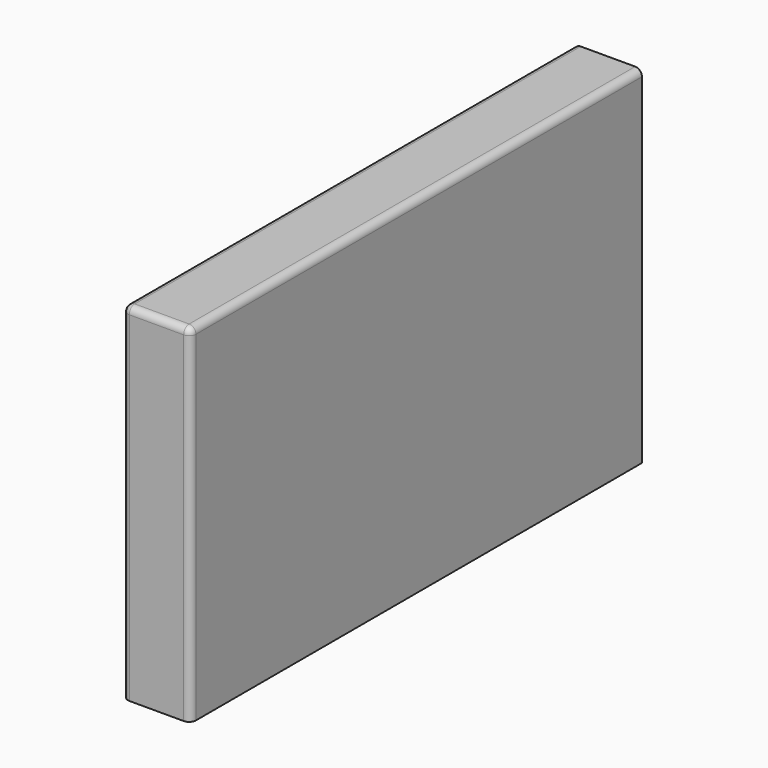
from build123d import *

# Parameters (mm, degrees)
F0_W     = 100
F0_H     = 830
F1_DEPTH = 510
F2_R     = 10


with BuildPart() as f1:
    # F0 (on Top) → F1 (new body)
    with BuildSketch(Plane.XY):
        with Locations((-13.945, 34.135237)):
            Rectangle(F0_W, F0_H)
    extrude(amount=F1_DEPTH)

    # F2
    f2_edges = [f1.edges().sort_by_distance(p)[0] for p in [
        (36.055, 34.135237, 510),
        (-63.945, 34.135237, 510),
        (-13.945, -380.864763, 510),
        (36.055, -380.864763, 255),
        (-63.945, -380.864763, 255),
    ]]
    fillet(f2_edges, radius=F2_R)


solid = f1.part
